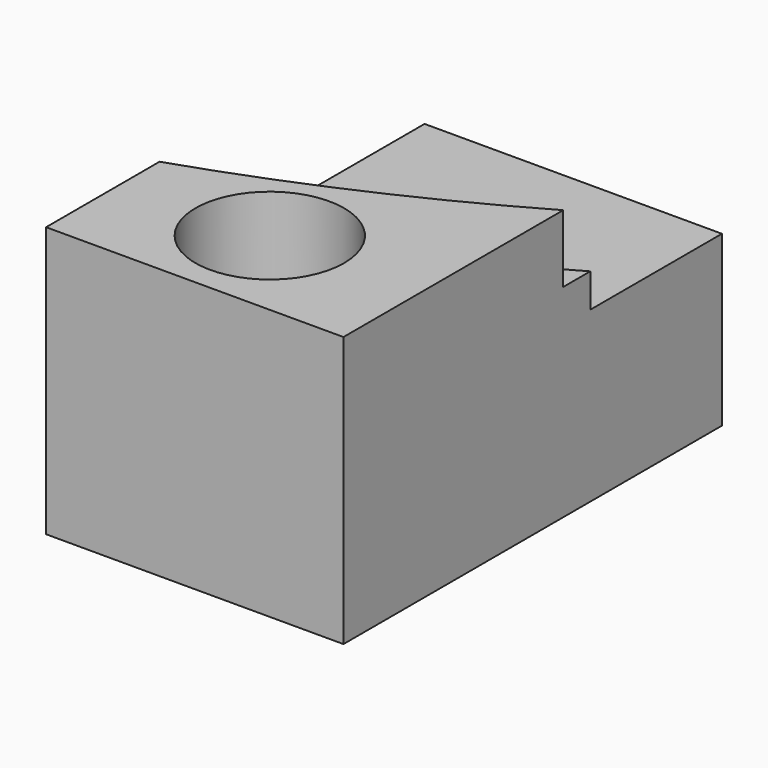
from build123d import *

# Parameters (mm, degrees)
F0_W     = 22
F0_H     = 35
F0_R     = 2.75
F1_DEPTH = 20
F2_R     = 5.5
F2_R_2   = 2.75
F3_DEPTH = 15
F5_DEPTH = 5
F7_DEPTH = 2.5


with BuildPart() as f1:
    # F0 (on Top) → F1 (new body)
    with BuildSketch(Plane.XY):
        with Locations((-11, -17.5)):
            Rectangle(F0_W, F0_H)
        with Locations((-11.25, -27.75)):
            Circle(F0_R, mode=Mode.SUBTRACT)
    extrude(amount=F1_DEPTH)

    # F2 (on face) → F3 (cut)
    with BuildSketch(Plane.XY.offset(20)):
        with Locations((-11.25, -27.75)):
            Circle(F2_R)
        with Locations((-11.25, -27.75)):
            Circle(F2_R_2, mode=Mode.SUBTRACT)
    extrude(amount=-F3_DEPTH, mode=Mode.SUBTRACT)

    # F4 (on face) → F5 (cut)
    with BuildSketch(Plane.XY.offset(20)):
        with BuildLine():
            Line((0, 0), (-22, 0))
            Line((-22, 0), (-22, -24.509916256))
            ThreePointArc((-22, -24.509916256), (-10.7524902947, -20.1460276214), (0, -14.6748347853))
            Line((0, -14.6748347853), (0, 0))
        make_face()
    extrude(amount=-F5_DEPTH, mode=Mode.SUBTRACT)

    # F6 (on face) → F7 (cut)
    with BuildSketch(Plane.XY.offset(15)):
        with BuildLine():
            Line((0, 0), (-22, 0))
            Line((-22, 0), (-22, -22.009916256))
            ThreePointArc((-22, -22.009916256), (-10.7298589355, -17.696651493), (0, -12.1748347853))
            Line((0, -12.1748347853), (0, 0))
        make_face()
    extrude(amount=-F7_DEPTH, mode=Mode.SUBTRACT)


solid = f1.part
